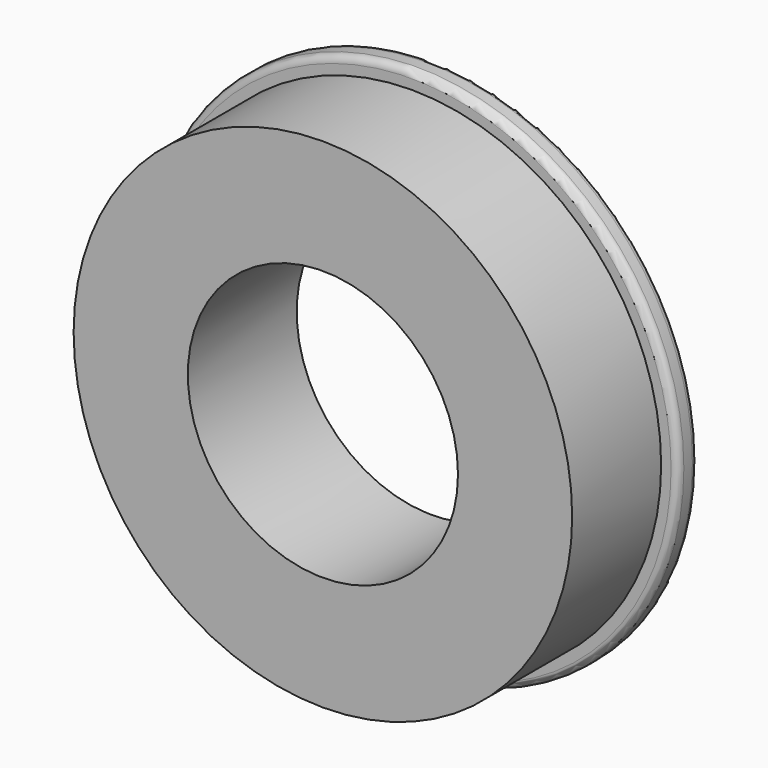
from build123d import *

# Parameters (mm, degrees)
F0_R     = 17.55
F0_R_2   = 9.51
F1_DEPTH = 9.58
F2_R     = 18.75
F2_R_2   = 17.55
F3_DEPTH = 1.75
F4_R     = 0.5


with BuildPart() as f1:
    # F0 (on Front) → F1 (new body)
    with BuildSketch(Plane.XZ):
        Circle(F0_R)
        Circle(F0_R_2, mode=Mode.SUBTRACT)
    extrude(amount=F1_DEPTH)

    # F2 (on Front) → F3 (join)
    with BuildSketch(Plane.XZ):
        Circle(F2_R)
        Circle(F2_R_2, mode=Mode.SUBTRACT)
    extrude(amount=F3_DEPTH)

    # F4
    f4_edges = [f1.edges().sort_by_distance(p)[0] for p in [
        (-18.75, -1.75, 0),
        (-18.75, 0, 0),
    ]]
    fillet(f4_edges, radius=F4_R)


solid = f1.part
